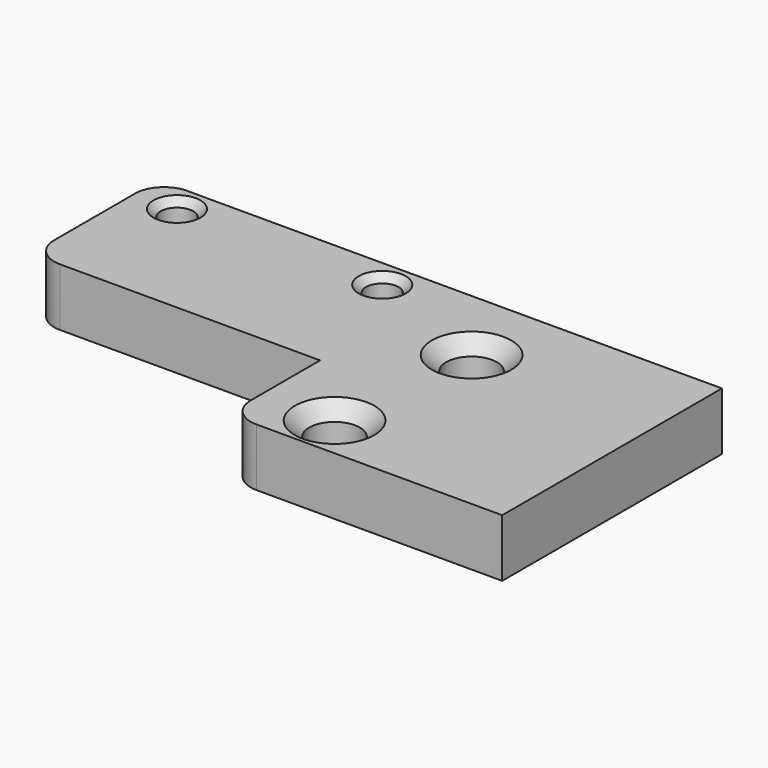
from build123d import *

# Parameters (mm, degrees)
SKETCH_R        = 1.75
SKETCH_R_2      = 1.125
PAD_DEPTH       = 4
CHAMFER_SIZE    = 1
CHAMFER001_SIZE = 0.5
FILLET_R        = 2


with BuildPart() as part:
    # Sketch → Pad (new body)
    with BuildSketch(Plane.XY):
        Polygon((0, 0), (19, 0), (19, 19), (0, 19), (-20, 19), (-20, 8), (0, 8), align=None)
        with Locations((5, 3)):
            Circle(SKETCH_R, mode=Mode.SUBTRACT)
        with Locations((6, 13.6)):
            Circle(SKETCH_R, mode=Mode.SUBTRACT)
        with Locations((-2.9, 17)):
            Circle(SKETCH_R_2, mode=Mode.SUBTRACT)
        with Locations((-17.1, 17)):
            Circle(SKETCH_R_2, mode=Mode.SUBTRACT)
    extrude(amount=PAD_DEPTH)

    # Chamfer
    chamfer_edges = [part.edges().sort_by_distance(p)[0] for p in [
        (4.25, 13.6, 4),
        (3.25, 3, 4),
    ]]
    chamfer(chamfer_edges, length=CHAMFER_SIZE)

    # Chamfer001
    chamfer001_edges = [part.edges().sort_by_distance(p)[0] for p in [
        (-4.025, 17, 4),
        (-18.225, 17, 4),
    ]]
    chamfer(chamfer001_edges, length=CHAMFER001_SIZE)

    # Fillet
    fillet_edges = [part.edges().sort_by_distance(p)[0] for p in [
        (0, 0, 2),
        (-20, 8, 2),
        (-20, 19, 2),
    ]]
    fillet(fillet_edges, radius=FILLET_R)


solid = part.part
